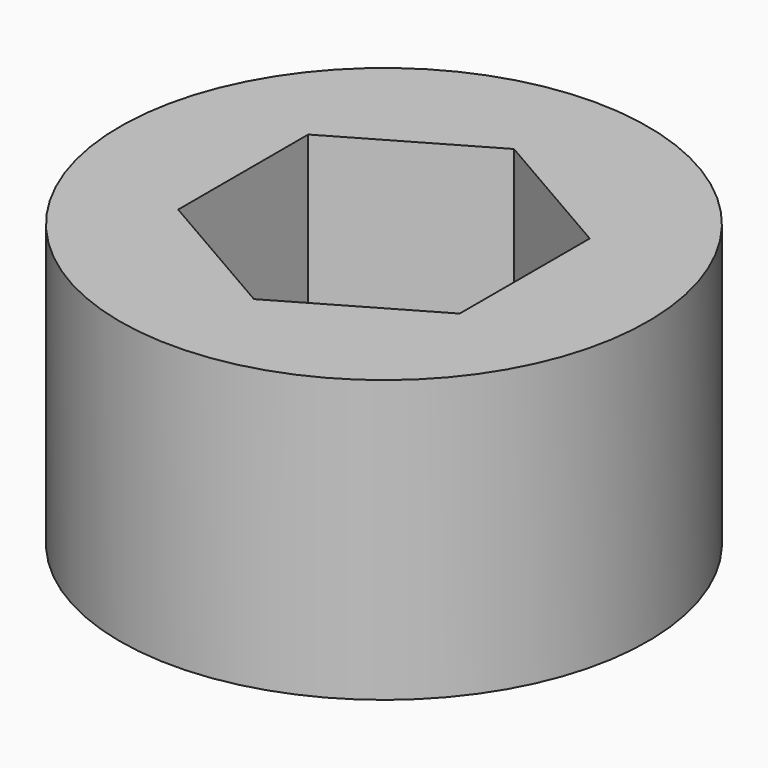
from build123d import *

# Parameters (mm, degrees)
EXTRUDE001_DEPTH = 5
FACE_R           = 7.5
FACE_R_2         = 2.55
EXTRUDE_DEPTH    = 8


with BuildPart() as extrude001:
    # Sketch001 (on Face4 of Extrude) → Extrude001 (new body)
    with BuildSketch(Plane.XY.offset(8)):
        Polygon((4, -2.309401), (4, 2.309401), (0, 4.618802), (-4, 2.309401), (-4, -2.309401), (0, -4.618802), align=None)
    extrude(amount=-EXTRUDE001_DEPTH)


with BuildPart() as cut:
    # Face → Extrude (new body)
    with BuildSketch(Plane(origin=(0, 0, 0), x_dir=(0, 1, 0), z_dir=(0, 0, 1))):
        Circle(FACE_R)
        Circle(FACE_R_2, mode=Mode.SUBTRACT)
    extrude(amount=EXTRUDE_DEPTH)

    # Cut: cut Extrude001
    add(extrude001.part, mode=Mode.SUBTRACT)


solid = cut.part
